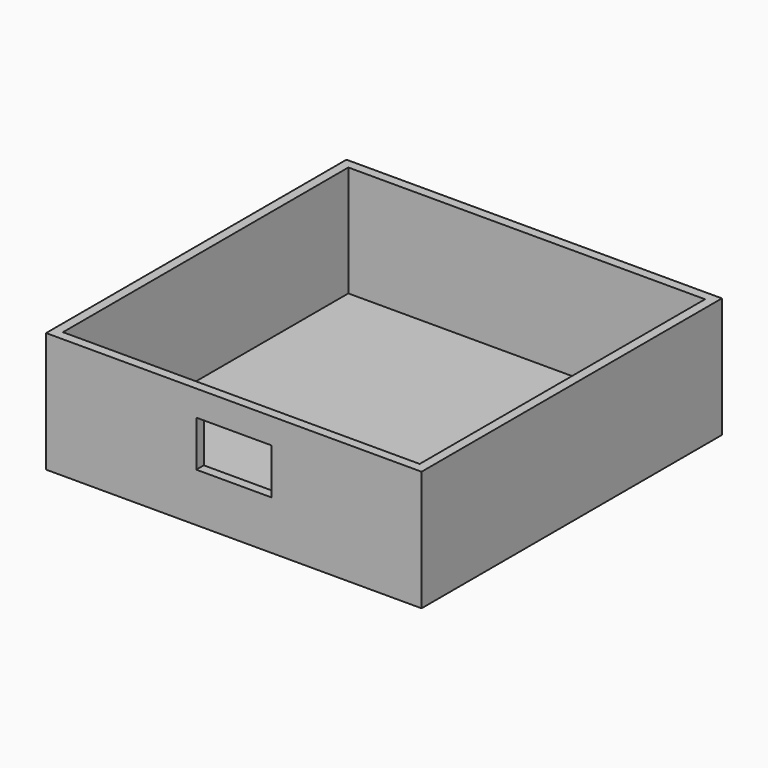
from build123d import *

# Parameters (mm, degrees)
F0_W     = 508
F0_H     = 508
F1_DEPTH = 12.7
F2_W     = 482.6
F2_H     = 482.6
F3_DEPTH = 150
F4_W     = 102
F4_H     = 62
F5_DEPTH = 50.8


with BuildPart() as f1:
    # F0 (on Top) → F1 (new body)
    with BuildSketch(Plane.XY):
        Rectangle(F0_W, F0_H)
    extrude(amount=-F1_DEPTH)

    # F2 (on face) → F3 (join)
    with BuildSketch(Plane.XY):
        Polygon((-241.3, 254), (-254, 254), (-254, 241.3), (-254, -233.078346), (-254, -241.3), (-254, -254), (-241.3, -254), (241.3, -254), (254, -254), (254, -241.3), (254, 241.3), (254, 254), (241.3, 254), align=None)
        Rectangle(F2_W, F2_H, mode=Mode.SUBTRACT)
    extrude(amount=F3_DEPTH)

    # F4 (on face) → F5 (cut)
    with BuildSketch(Plane.XZ.offset(254)):
        with Locations((0.197696, 84.359624)):
            Rectangle(F4_W, F4_H)
    extrude(amount=-F5_DEPTH, mode=Mode.SUBTRACT)


solid = f1.part
